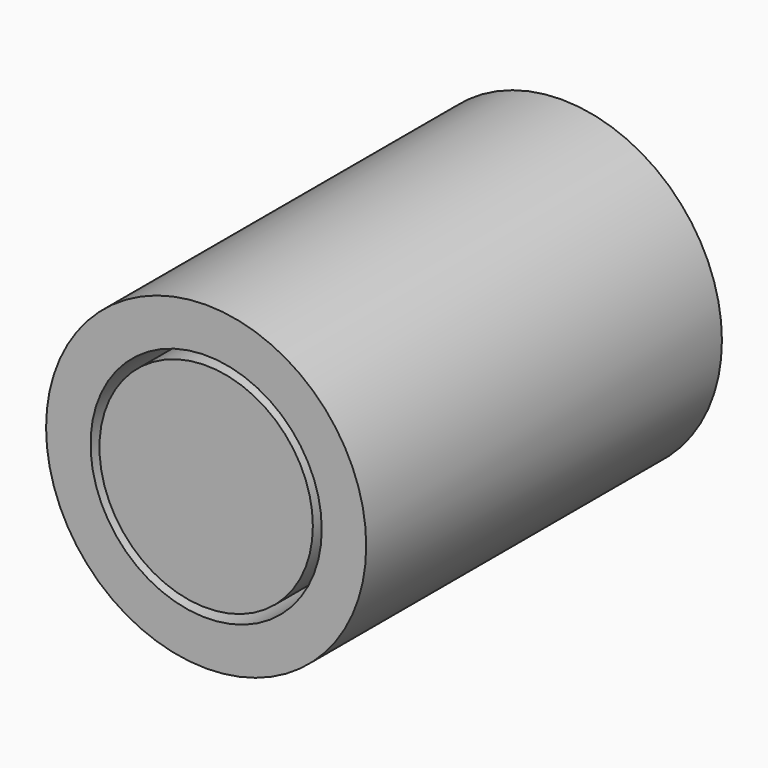
from build123d import *

# Parameters (mm, degrees)
F0_R     = 9
F2_DEPTH = 25
F1_R     = 6
F3_T     = -2.5


with BuildPart() as f2:
    # F0 (on Front) → F2 (new body)
    with BuildSketch(Plane.XZ):
        Circle(F0_R)
    extrude(amount=F2_DEPTH)

    # F3
    f3_openings = [f2.faces().sort_by_distance(p)[0] for p in [
        (0, -25, 0),
    ]]
    offset(amount=F3_T, openings=f3_openings)


with BuildPart() as f2b:
    # F1 (on face) → F2, piece 2 (new body)
    with BuildSketch(Plane.XZ):
        Circle(F1_R)
    extrude(amount=F2_DEPTH)


solid = Compound([f2.part, f2b.part])
